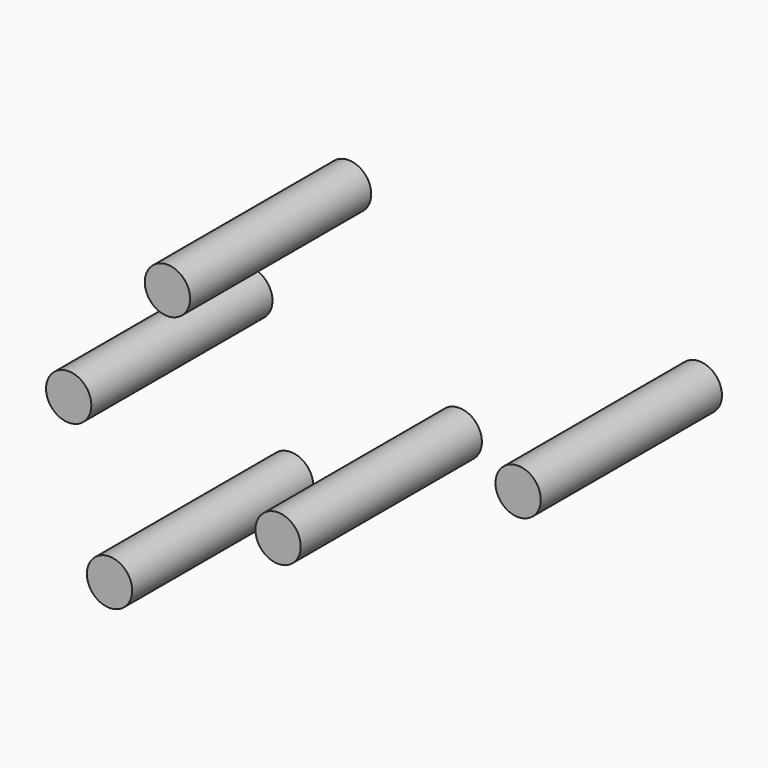
from build123d import *

# Parameters (mm, degrees)
F0_R     = 2.54
F1_DEPTH = 25.4


with BuildPart() as f1:
    # F0 (on Front) → F1 (new body)
    with BuildSketch(Plane.XZ):
        with Locations((-33.703495, 23.010036)):
            Circle(F0_R)
        with Locations((-6.77889, 36.376864)):
            Circle(F0_R)
        with Locations((-46.115551, 43.442186)):
            Circle(F0_R)
        with Locations((-57.190917, 29.31154)):
            Circle(F0_R)
        with Locations((-52.608009, 12.50753)):
            Circle(F0_R)
    extrude(amount=F1_DEPTH)


solid = f1.part
